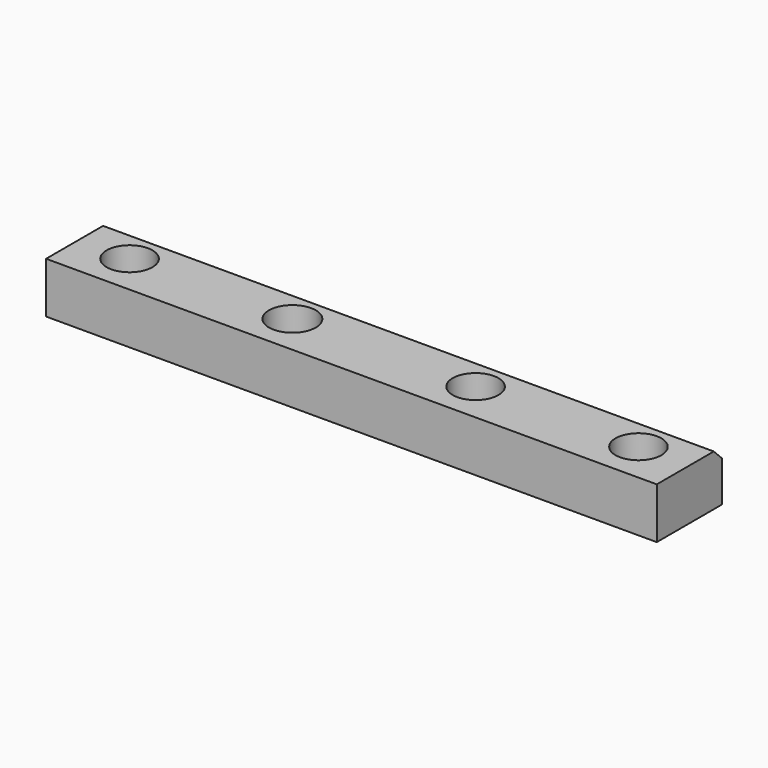
from build123d import *

# Parameters (mm, degrees)
F0_W     = 60
F0_H     = 8
F1_DEPTH = 5
F2_R     = 2.3
F2_R_2   = 2.25
F3_DEPTH = 5.001
F4_SIZE  = 1


with BuildPart() as f1:
    # F0 (on Top) → F1 (new body)
    with BuildSketch(Plane.XY):
        with Locations((0.770761, -3.362608)):
            Rectangle(F0_W, F0_H)
    extrude(amount=F1_DEPTH)

    # F2 (on face) → F3 (cut, through all)
    with BuildSketch(Plane.XY.offset(5)):
        with Locations((-8.229239, -3.362608)):
            Circle(F2_R)
        with Locations((9.770761, -3.362608)):
            Circle(F2_R_2)
        with Locations((25.770761, -3.362608)):
            Circle(F2_R_2)
        with Locations((-24.229239, -3.362608)):
            Circle(F2_R_2)
    extrude(amount=-F3_DEPTH, mode=Mode.SUBTRACT)

    # F4
    f4_edges = [f1.edges().sort_by_distance(p)[0] for p in [
        (0.770761, 0.637392, 5),
    ]]
    chamfer(f4_edges, length=F4_SIZE)


solid = f1.part
